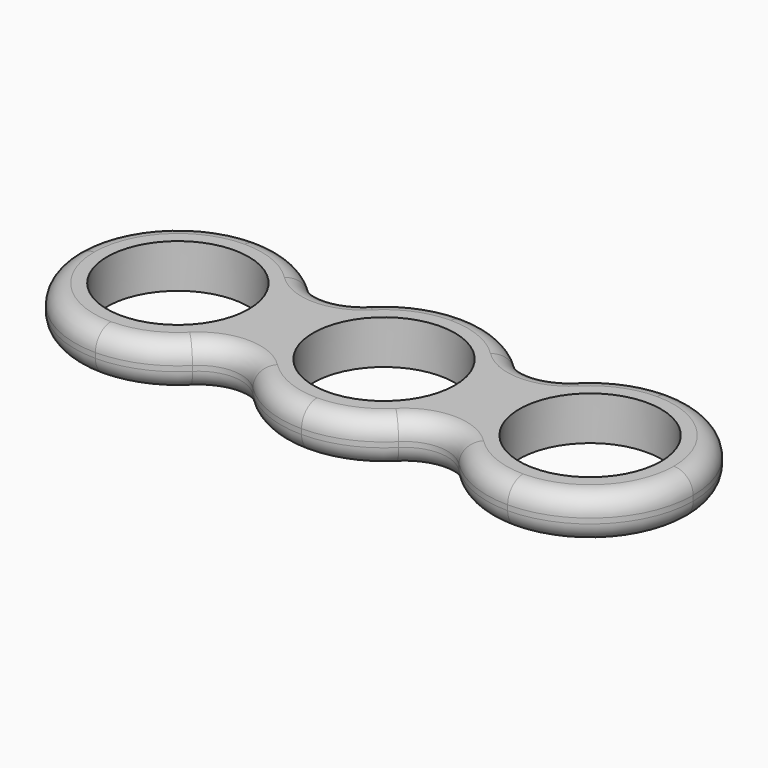
from build123d import *

# Parameters (mm, degrees)
F0_R     = 11
F1_DEPTH = 6.8
F2_R     = 3


with BuildPart() as f1:
    # F0 (on Top) → F1 (new body)
    with BuildSketch(Plane.XY):
        with BuildLine():
            ThreePointArc((-20.686291531, -11.313708529), (-17.2179274879, -6.1229349374), (-16, 0))
            ThreePointArc((-16, 0), (-17.2179274734, 6.1229349024), (-20.6862914774, 11.3137084754))
            ThreePointArc((-20.6862914774, 11.3137084754), (-25.8770650668, 14.7820725138), (-32, 16))
            ThreePointArc((-32, 16), (-43.313708499, 11.313708499), (-48, 0))
            ThreePointArc((-48, 0), (-43.313708499, -11.313708499), (-32, -16))
            ThreePointArc((-32, -16), (-25.8770651018, -14.7820725283), (-20.686291531, -11.313708529))
        make_face()
        with Locations((-32, 0)):
            Circle(F0_R, mode=Mode.SUBTRACT)
        with BuildLine():
            ThreePointArc((11.3137085412, -11.3137084568), (14.7820725316, -6.1229348903), (16, 0))
            ThreePointArc((16, 0), (14.7820725145, 6.1229349315), (11.3137084781, 11.3137085199))
            ThreePointArc((11.3137084781, 11.3137085199), (6.1229349042, 14.7820725258), (0, 16))
            ThreePointArc((0, 16), (-6.1229349134, 14.782072522), (-11.3137084922, 11.3137085058))
            ThreePointArc((-11.3137084922, 11.3137085058), (-14.7820725183, 6.1229349223), (-16, 0))
            ThreePointArc((-16, 0), (-14.7820725202, -6.1229349178), (-11.313708499, -11.313708499))
            ThreePointArc((-11.313708499, -11.313708499), (-6.1229348926, -14.7820725306), (5.46e-08, -16))
            ThreePointArc((5.46e-08, -16), (6.1229349706, -14.7820724983), (11.3137085412, -11.3137084568))
        make_face()
        Circle(F0_R, mode=Mode.SUBTRACT)
        with BuildLine():
            ThreePointArc((20.6862914869, -11.3137084849), (25.877065073, -14.7820725164), (32, -16))
            ThreePointArc((32, -16), (43.313708499, -11.313708499), (48, 0))
            ThreePointArc((48, 0), (43.313708499, 11.313708499), (32, 16))
            ThreePointArc((32, 16), (25.8770650464, 14.7820725054), (20.6862914463, 11.3137084443))
            ThreePointArc((20.6862914463, 11.3137084443), (17.217927465, 6.1229348821), (16, 0))
            ThreePointArc((16, 0), (17.217927476, -6.1229349086), (20.6862914869, -11.3137084849))
        make_face()
        with Locations((32, 0)):
            Circle(F0_R, mode=Mode.SUBTRACT)
        with BuildLine():
            ThreePointArc((11.3137084781, 11.3137085199), (14.7820725145, 6.1229349315), (16, 0))
            ThreePointArc((16, 0), (17.217927465, 6.1229348821), (20.6862914463, 11.3137084443))
            ThreePointArc((20.6862914463, 11.3137084443), (15.9999999466, 9.372583002), (11.3137084781, 11.3137085199))
        make_face()
        with BuildLine():
            ThreePointArc((-20.6862914774, 11.3137084754), (-17.2179274734, 6.1229349024), (-16, 0))
            ThreePointArc((-16, 0), (-14.7820725183, 6.1229349223), (-11.3137084922, 11.3137085058))
            ThreePointArc((-11.3137084922, 11.3137085058), (-15.9999999785, 9.372583002), (-20.6862914774, 11.3137084754))
        make_face()
        with BuildLine():
            ThreePointArc((-20.686291531, -11.313708529), (-16.0000000212, -9.372583002), (-11.313708499, -11.313708499))
            ThreePointArc((-11.313708499, -11.313708499), (-14.7820725202, -6.1229349178), (-16, 0))
            ThreePointArc((-16, 0), (-17.2179274879, -6.1229349374), (-20.686291531, -11.313708529))
        make_face()
        with BuildLine():
            ThreePointArc((11.3137085412, -11.3137084568), (16.0000000199, -9.372583002), (20.6862914869, -11.3137084849))
            ThreePointArc((20.6862914869, -11.3137084849), (17.217927476, -6.1229349086), (16, 0))
            ThreePointArc((16, 0), (14.7820725316, -6.1229348903), (11.3137085412, -11.3137084568))
        make_face()
    extrude(amount=F1_DEPTH)

    # F2
    f2_edges = [f1.edges().sort_by_distance(p)[0] for p in [
        (-48, 0, 6.8),
        (-16, -9.372583, 6.8),
        (0, -16, 6.8),
        (16, -9.372583, 6.8),
        (48, 0, 6.8),
        (-16, 9.372583, 6.8),
        (0, 16, 6.8),
        (16, 9.372583, 6.8),
        (-48, 0, 0),
        (-16, -9.372583, 0),
        (0, -16, 0),
        (16, -9.372583, 0),
        (48, 0, 0),
        (-16, 9.372583, 0),
        (0, 16, 0),
        (16, 9.372583, 0),
    ]]
    fillet(f2_edges, radius=F2_R)


solid = f1.part
